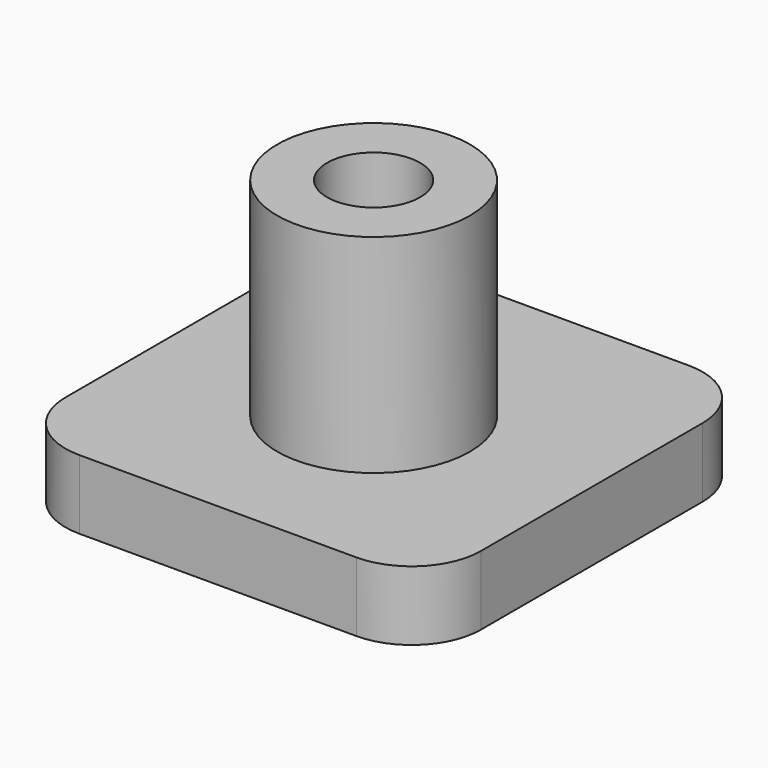
from build123d import *

# Parameters (mm, degrees)
F0_R     = 17.679544
F1_DEPTH = 12.7
F0_R_2   = 8.543995
F2_DEPTH = 50.8


with BuildPart() as f1:
    # F0 (on Top) → F1 (new body)
    with BuildSketch(Plane.XY):
        with BuildLine():
            Line((-63.5, 0), (-12.7, 0))
            ThreePointArc((-12.7, 0), (-3.719744, 3.719744), (0, 12.7))
            Line((0, 12.7), (0, 63.5))
            ThreePointArc((0, 63.5), (-3.719744, 72.480256), (-12.7, 76.2))
            Line((-12.7, 76.2), (-63.5, 76.2))
            ThreePointArc((-63.5, 76.2), (-72.480256, 72.480256), (-76.2, 63.5))
            Line((-76.2, 63.5), (-76.2, 12.7))
            ThreePointArc((-76.2, 12.7), (-72.480256, 3.719744), (-63.5, 0))
        make_face()
        with Locations((-38.140807, 35.769224)):
            Circle(F0_R, mode=Mode.SUBTRACT)
    extrude(amount=F1_DEPTH)

    # F0 (on Top) → F2 (join)
    with BuildSketch(Plane.XY):
        with Locations((-38.140807, 35.769224)):
            Circle(F0_R)
        with Locations((-38.140807, 35.769224)):
            Circle(F0_R_2, mode=Mode.SUBTRACT)
    extrude(amount=F2_DEPTH)


solid = f1.part
